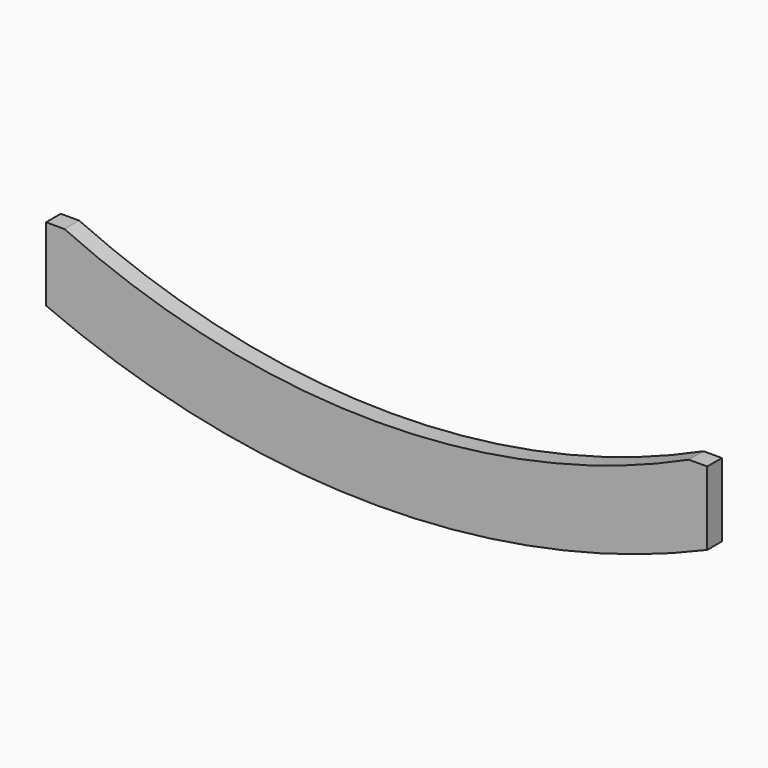
from build123d import *

# Parameters (mm, degrees)
F1_DEPTH = 12.7


with BuildPart() as f1:
    # F0 (on Front) → F1 (new body)
    with BuildSketch(Plane.XZ):
        with BuildLine():
            Line((12.7, 98.031372), (0, 98.031372))
            Line((0, 98.031372), (0, 47.231372))
            ThreePointArc((0, 47.231372), (228.6, 0), (457.2, 47.231372))
            Line((457.2, 47.231372), (457.2, 98.031372))
            Line((457.2, 98.031372), (444.5, 98.031372))
            ThreePointArc((444.5, 98.031372), (228.6, 50.872041), (12.7, 98.031372))
        make_face()
    extrude(amount=F1_DEPTH)


solid = f1.part
